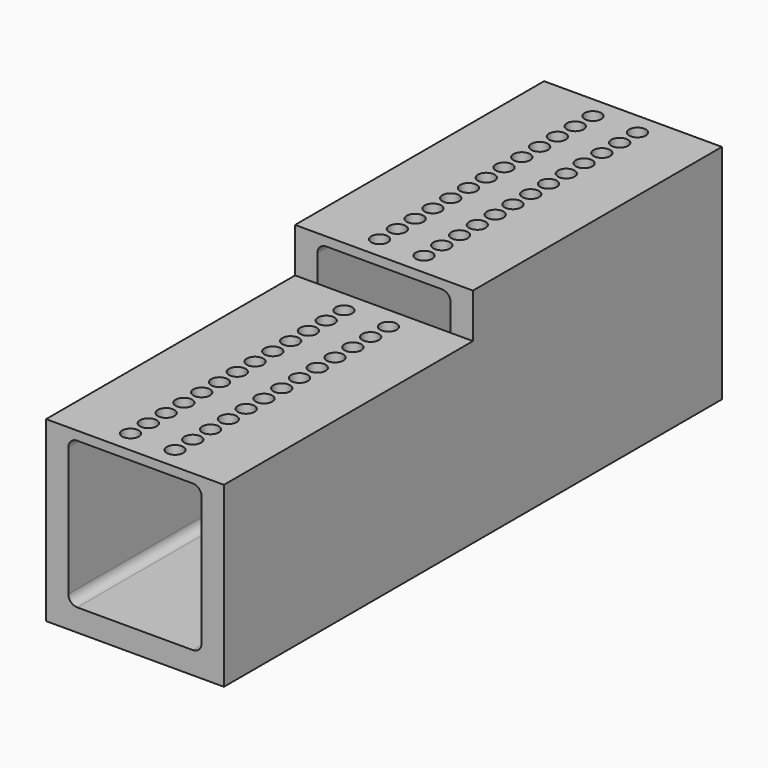
from build123d import *

# Parameters (mm, degrees)
F0_W      = 40
F0_H      = 70
F1_DEPTH  = 50
F2_W      = 40
F2_H      = 70
F3_DEPTH  = 40
F4_W      = 30
F4_H      = 33
F5_DEPTH  = 70
F6_W      = 30
F6_H      = 43
F7_DEPTH  = 70
F8_R      = 2
F9_R      = 1.875
F10_DEPTH = 15


with BuildPart() as f1:
    # F0 (on Top) → F1 (new body)
    with BuildSketch(Plane.XY):
        with Locations((0, 35)):
            Rectangle(F0_W, F0_H)
    extrude(amount=F1_DEPTH)

    # F2 (on Top) → F3 (join)
    with BuildSketch(Plane.XY):
        with Locations((0, -35)):
            Rectangle(F2_W, F2_H)
    extrude(amount=F3_DEPTH)

    # F4 (on face) → F5 (cut)
    with BuildSketch(Plane.XZ.offset(70)):
        with Locations((0, 21.5)):
            Rectangle(F4_W, F4_H)
    extrude(amount=-F5_DEPTH, mode=Mode.SUBTRACT)

    # F6 (on face) → F7 (cut)
    with BuildSketch(Plane(origin=(0, 70, 0), x_dir=(-1, 0, 0), z_dir=(0, 1, 0))):
        with Locations((0, 26.5)):
            Rectangle(F6_W, F6_H)
    extrude(amount=-F7_DEPTH, mode=Mode.SUBTRACT)

    # F8
    f8_edges = [f1.edges().sort_by_distance(p)[0] for p in [
        (-15, 0, 5),
        (15, 0, 5),
        (15, -35, 38),
        (-15, -35, 38),
        (15, 35, 48),
        (-15, 35, 48),
    ]]
    fillet(f8_edges, radius=F8_R)

    # F9 (on face) → F10 (cut)
    with BuildSketch(Plane.XY.offset(50)):
        with Locations((5, 65)):
            Circle(F9_R)
        with Locations((5, 60)):
            Circle(F9_R)
        with Locations((5, 55)):
            Circle(F9_R)
        with Locations((5, 50)):
            Circle(F9_R)
        with Locations((5, 45)):
            Circle(F9_R)
        with Locations((5, 40)):
            Circle(F9_R)
        with Locations((5, 35)):
            Circle(F9_R)
        with Locations((5, 30)):
            Circle(F9_R)
        with Locations((5, 25)):
            Circle(F9_R)
        with Locations((5, 20)):
            Circle(F9_R)
        with Locations((5, 15)):
            Circle(F9_R)
        with Locations((5, 10)):
            Circle(F9_R)
        with Locations((5, 5)):
            Circle(F9_R)
        with Locations((5, -5)):
            Circle(F9_R)
        with Locations((5, -10)):
            Circle(F9_R)
        with Locations((5, -15)):
            Circle(F9_R)
        with Locations((5, -20)):
            Circle(F9_R)
        with Locations((5, -25)):
            Circle(F9_R)
        with Locations((5, -30)):
            Circle(F9_R)
        with Locations((5, -35)):
            Circle(F9_R)
        with Locations((5, -40)):
            Circle(F9_R)
        with Locations((5, -45)):
            Circle(F9_R)
        with Locations((5, -50)):
            Circle(F9_R)
        with Locations((5, -55)):
            Circle(F9_R)
        with Locations((5, -60)):
            Circle(F9_R)
        with Locations((5, -65)):
            Circle(F9_R)
        with Locations((-5, 65)):
            Circle(F9_R)
        with Locations((-5, 60)):
            Circle(F9_R)
        with Locations((-5, 55)):
            Circle(F9_R)
        with Locations((-5, 50)):
            Circle(F9_R)
        with Locations((-5, 45)):
            Circle(F9_R)
        with Locations((-5, 40)):
            Circle(F9_R)
        with Locations((-5, 35)):
            Circle(F9_R)
        with Locations((-5, 30)):
            Circle(F9_R)
        with Locations((-5, 25)):
            Circle(F9_R)
        with Locations((-5, 20)):
            Circle(F9_R)
        with Locations((-5, 15)):
            Circle(F9_R)
        with Locations((-5, 10)):
            Circle(F9_R)
        with Locations((-5, 5)):
            Circle(F9_R)
        with Locations((-5, -5)):
            Circle(F9_R)
        with Locations((-5, -10)):
            Circle(F9_R)
        with Locations((-5, -15)):
            Circle(F9_R)
        with Locations((-5, -20)):
            Circle(F9_R)
        with Locations((-5, -25)):
            Circle(F9_R)
        with Locations((-5, -30)):
            Circle(F9_R)
        with Locations((-5, -35)):
            Circle(F9_R)
        with Locations((-5, -40)):
            Circle(F9_R)
        with Locations((-5, -45)):
            Circle(F9_R)
        with Locations((-5, -50)):
            Circle(F9_R)
        with Locations((-5, -55)):
            Circle(F9_R)
        with Locations((-5, -60)):
            Circle(F9_R)
        with Locations((-5, -65)):
            Circle(F9_R)
    extrude(amount=-F10_DEPTH, mode=Mode.SUBTRACT)


solid = f1.part
